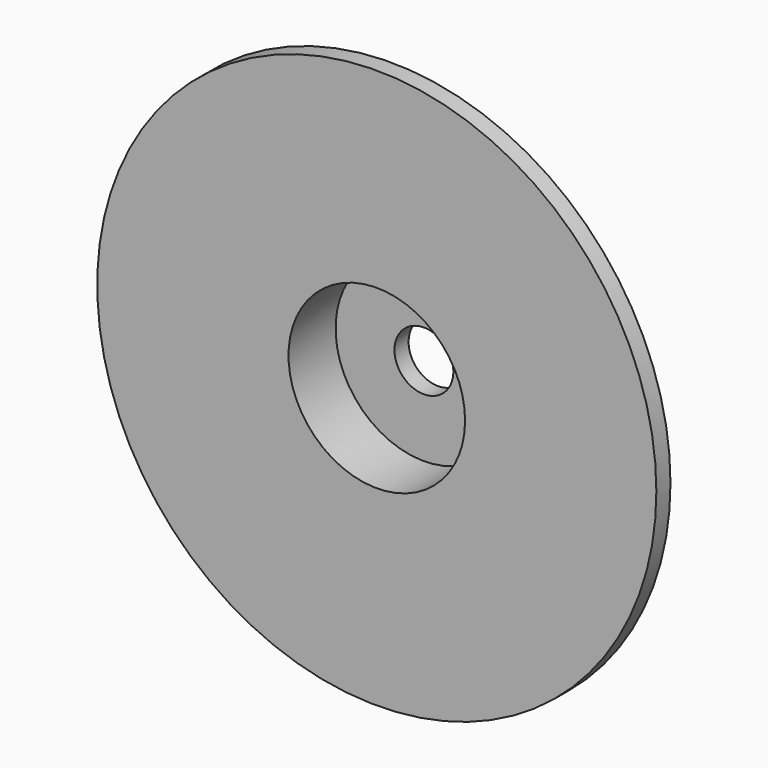
from build123d import *

# Parameters (mm, degrees)
F0_R     = 47.5
F1_DEPTH = 13
F2_R     = 15
F3_DEPTH = 10
F4_R     = 58.550263
F4_R_2   = 25
F5_DEPTH = 10
F6_R     = 5
F7_DEPTH = 25


with BuildPart() as f1:
    # F0 (on Front) → F1 (new body)
    with BuildSketch(Plane.XZ):
        Circle(F0_R)
    extrude(amount=F1_DEPTH)

    # F2 (on face) → F3 (cut)
    with BuildSketch(Plane.XZ.offset(13)):
        Circle(F2_R)
    extrude(amount=-F3_DEPTH, mode=Mode.SUBTRACT)

    # F4 (on face) → F5 (cut)
    with BuildSketch(Plane(origin=(0, 0, 0), x_dir=(-1, 0, 0), z_dir=(0, 1, 0))):
        with Locations((0, -4.284165)):
            Circle(F4_R)
        Circle(F4_R_2, mode=Mode.SUBTRACT)
    extrude(amount=-F5_DEPTH, mode=Mode.SUBTRACT)

    # F6 (on face) → F7 (cut)
    with BuildSketch(Plane(origin=(0, 0, 0), x_dir=(-1, 0, 0), z_dir=(0, 1, 0))):
        Circle(F6_R)
    extrude(amount=-F7_DEPTH, mode=Mode.SUBTRACT)


solid = f1.part
